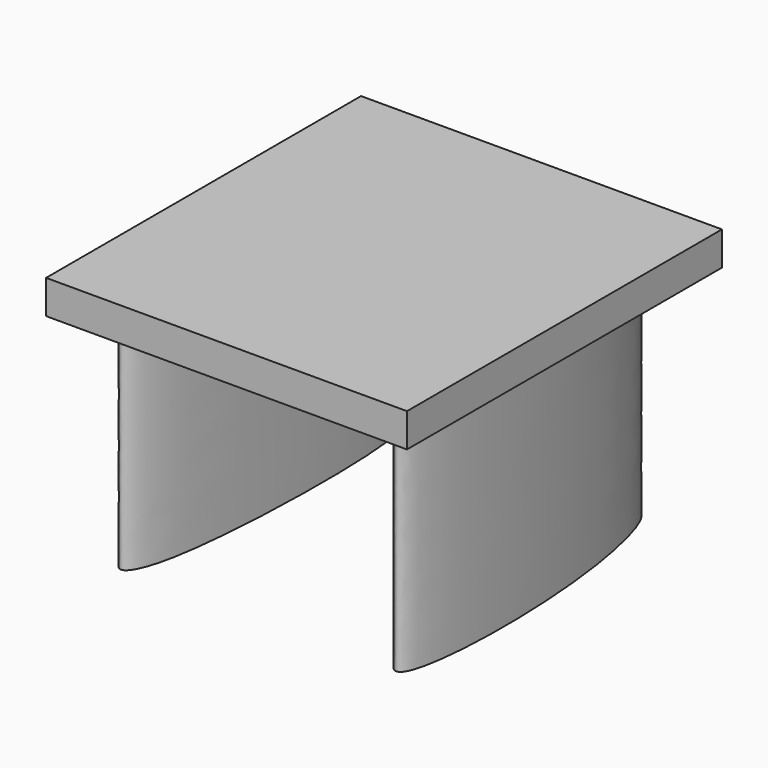
from build123d import *

# Parameters (mm, degrees)
F1_DEPTH = 25.4
F2_W     = 17.6742579788
F2_H     = 38.560397923
F3_DEPTH = 3.302
F6_DEPTH = 19.05
F7_DEPTH = 21.844


with BuildPart() as f1:
    # F0 (on Top) → F1 (new body)
    with BuildSketch(Plane.XY):
        with BuildLine():
            add(Edge.make_bspline(
                [(-31.0847982764, 25.2515990287), (-31.7698792393, 26.0822197703), (-34.7474391826, 17.7726717647), (-35.3043048421, -0.599531426), (-33.4496241903, -8.0378860922), (-29.8432562482, -2.4841204704), (-29.6331173718, 23.4915205345), (-31.0847982764, 25.2515990287)],
                knots=[0, 0, 0, 0, 0.1487844876, 0.425240938, 0.5583817626, 0.6847268991, 1, 1, 1, 1], degree=3))
        make_face()
    extrude(amount=F1_DEPTH)

    # F2 (on face) → F3 (join)
    with BuildSketch(Plane.XY.offset(25.4)):
        with Locations((-28.4384423867, 8.7931714952)):
            Rectangle(F2_W, F2_H)
        with BuildLine():
            add(Edge.make_bspline(
                [(-31.0847982764, 25.2515990287), (-31.7698792393, 26.0822197703), (-34.7474391826, 17.7726717647), (-35.3043048421, -0.599531426), (-33.4496241903, -8.0378860922), (-29.8432562482, -2.4841204704), (-29.6331173718, 23.4915205345), (-31.0847982764, 25.2515990287)],
                knots=[0, 0, 0, 0, 0.1487844876, 0.425240938, 0.5583817626, 0.6847268991, 1, 1, 1, 1], degree=3))
        make_face(mode=Mode.SUBTRACT)
    extrude(amount=-F3_DEPTH)

    # F4: F1 across face


with BuildPart() as f1_1:
    add(f1.part)
    add(f1.part.mirror(Plane(origin=(-19.6013133973, 8.7931714952, 23.749), x_dir=(0, 1, 0), z_dir=(1, 0, 0))))

    # F5 (on face) → F6 (join)
    with BuildSketch(Plane(origin=(0, 0, 22.098), x_dir=(1, 0, 0), z_dir=(0, 0, -1))):
        with BuildLine():
            add(Edge.make_bspline(
                [(-19.6013133973, -16.9590394944), (-20.2534853579, -16.9497783141), (-21.7654957969, -21.5023492217), (-19.5189288998, -29.3392084323), (-17.7834131566, -21.5243112248), (-18.9511314366, -16.9682724157), (-19.6013133973, -16.9590394944)],
                knots=[0, 0, 0, 0, 0.2434890086, 0.5011335003, 0.7572539598, 1, 1, 1, 1], degree=3))
        make_face()
    extrude(amount=F6_DEPTH)

    # F5 (on face) → F7 (join)
    with BuildSketch(Plane(origin=(0, 0, 22.098), x_dir=(1, 0, 0), z_dir=(0, 0, -1))):
        with BuildLine():
            add(Edge.make_bspline(
                [(-19.6013133973, -16.9590394944), (-20.2534853579, -16.9497783141), (-21.7654957969, -21.5023492217), (-19.5189288998, -29.3392084323), (-17.7834131566, -21.5243112248), (-18.9511314366, -16.9682724157), (-19.6013133973, -16.9590394944)],
                knots=[0, 0, 0, 0, 0.2434890086, 0.5011335003, 0.7572539598, 1, 1, 1, 1], degree=3))
        make_face()
    extrude(amount=F7_DEPTH)


solid = f1_1.part
